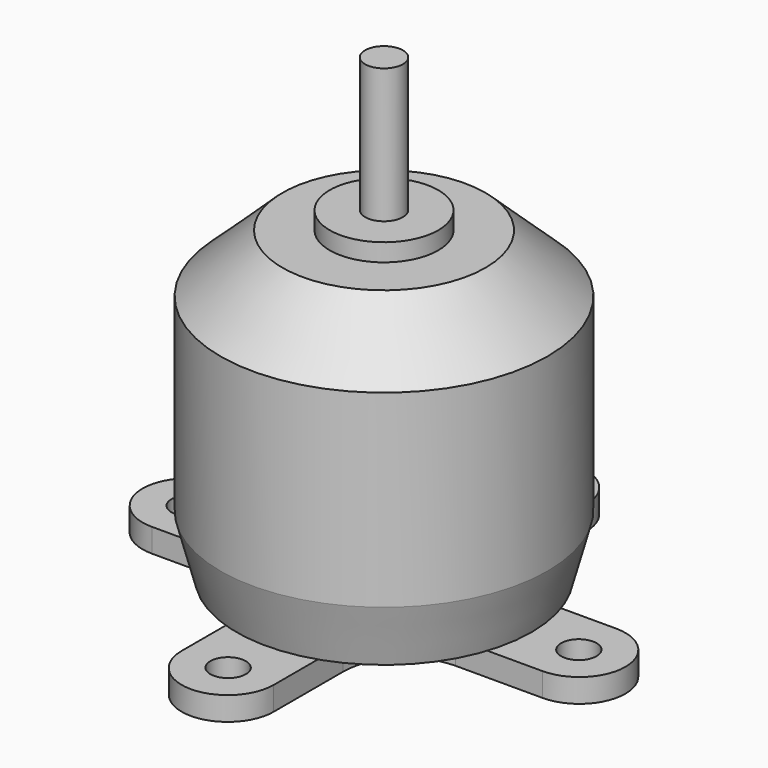
from build123d import *

# Parameters (mm, degrees)
SKETCH001_R   = 5
SKETCH001_R_2 = 1.5
PAD_DEPTH     = 2


with BuildPart() as body:
    # Sketch → Revolution (revolve)
    with BuildSketch(Plane.XZ):
        Polygon((0, 0), (0, 38.8), (1.6, 38.8), (1.6, 27.4), (4.6, 27.4), (4.6, 25.9), (8.6, 25.9), (13.85, 21), (13.85, 5), (12.5, 0), align=None)
    revolve(axis=Axis((0, 0, 0), (0, 0, 1)))


with BuildPart() as body001:
    # Sketch001 → Pad (new body)
    with BuildSketch(Plane.XY):
        with BuildLine():
            ThreePointArc((-16.546601, 3.9), (-20.446601, 0), (-16.546601, -3.9))
            Line((-16.546601, -3.9), (-9.192388, -3.9))
            ThreePointArc((-3.9, -9.192388), (-5.450105, -5.450105), (-9.192388, -3.9))
            Line((-3.9, -16.546601), (-3.9, -9.192388))
            ThreePointArc((-3.9, -16.546601), (0, -20.446601), (3.9, -16.546601))
            Line((3.9, -16.546601), (3.9, -9.192388))
            ThreePointArc((9.192388, -3.9), (5.450105, -5.450105), (3.9, -9.192388))
            Line((16.546601, -3.9), (9.192388, -3.9))
            ThreePointArc((16.546601, -3.9), (20.446601, 0), (16.546601, 3.9))
            Line((16.546601, 3.9), (9.192388, 3.9))
            ThreePointArc((3.9, 9.192388), (5.450105, 5.450105), (9.192388, 3.9))
            Line((3.9, 16.546601), (3.9, 9.192388))
            ThreePointArc((3.9, 16.546601), (0, 20.446601), (-3.9, 16.546601))
            Line((-3.9, 16.546601), (-3.9, 9.192388))
            ThreePointArc((-9.192388, 3.9), (-5.450105, 5.450105), (-3.9, 9.192388))
            Line((-16.546601, 3.9), (-9.192388, 3.9))
        make_face()
        Circle(SKETCH001_R, mode=Mode.SUBTRACT)
        with Locations((0, 16.5)):
            Circle(SKETCH001_R_2, mode=Mode.SUBTRACT)
        with Locations((16.5, 0)):
            Circle(SKETCH001_R_2, mode=Mode.SUBTRACT)
        with Locations((0, -16.5)):
            Circle(SKETCH001_R_2, mode=Mode.SUBTRACT)
        with Locations((-16.5, 0)):
            Circle(SKETCH001_R_2, mode=Mode.SUBTRACT)
    extrude(amount=-PAD_DEPTH)


solid = Compound([body.part, body001.part])
